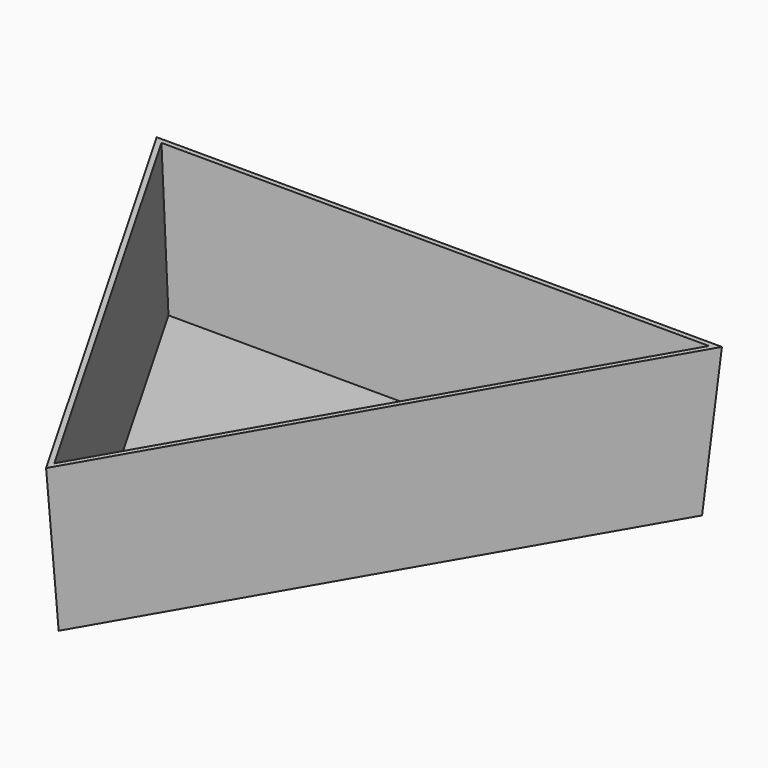
from build123d import *

# Parameters (mm, degrees)
F1_DEPTH = 74.422
F1_TAPER = -3
F2_T     = -2.54


with BuildPart() as f1:
    # F0 (on Top) → F1 (new body)
    with BuildSketch(Plane.XY):
        Polygon((-0.3165035462, -182.6735311121), (134.188654921, 49.1998367876), (-133.8721513748, 49.7480370104), align=None)
    extrude(amount=F1_DEPTH, taper=F1_TAPER)

    # F2
    f2_openings = [f1.faces().sort_by_distance(p)[0] for p in [
        (0, -27.908552, 74.422),
    ]]
    offset(amount=F2_T, openings=f2_openings, kind=Kind.INTERSECTION)


solid = f1.part
